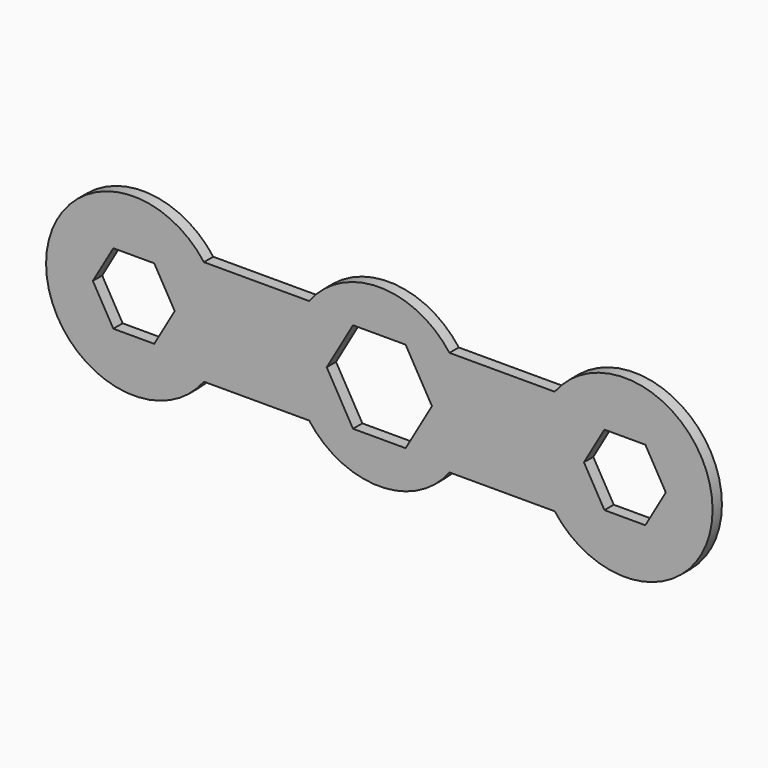
from build123d import *

# Parameters (mm, degrees)
F1_DEPTH = 2


with BuildPart() as f1:
    # F0 (on Front) → F1 (new body)
    with BuildSketch(Plane.XZ):
        with BuildLine():
            ThreePointArc((30, -9), (57, 0), (30, 9))
            Line((30, 9), (12, 9))
            ThreePointArc((12, 9), (0, 15), (-12, 9))
            Line((-12, 9), (-30, 9))
            ThreePointArc((-30, 9), (-57, 0), (-30, -9))
            Line((-30, -9), (-12, -9))
            ThreePointArc((-12, -9), (0, -15), (12, -9))
            Line((12, -9), (30, -9))
        make_face()
        Polygon((-45.5, 6.0621778265), (-38.5, 6.0621778265), (-35, 0), (-38.5, -6.0621778265), (-45.5, -6.0621778265), (-49, 0), align=None, mode=Mode.SUBTRACT)
        Polygon((-4.5, 7.7942286341), (4.5, 7.7942286341), (9, 0), (4.5, -7.7942286341), (-4.5, -7.7942286341), (-9, 0), align=None, mode=Mode.SUBTRACT)
        Polygon((38.5, 6.0621778265), (45.5, 6.0621778265), (49, 0), (45.5, -6.0621778265), (38.5, -6.0621778265), (35, 0), align=None, mode=Mode.SUBTRACT)
    extrude(amount=F1_DEPTH)


solid = f1.part
